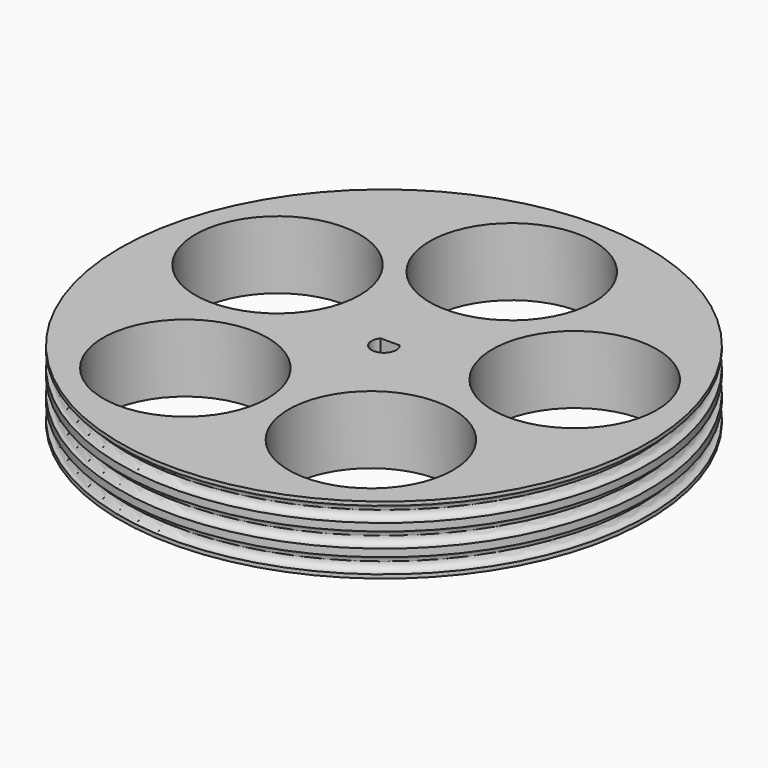
from build123d import *

# Parameters (mm, degrees)
F3_DEPTH = 9.001
F4_R     = 10.903033
F5_DEPTH = 9.001


with BuildPart() as f1:
    # F0 (on Front) → F1 (revolve)
    with BuildSketch(Plane.XZ):
        with BuildLine():
            Line((-35, 0), (0, 0))
            Line((0, 0), (0, 9))
            Line((0, 9), (-35, 9))
            Line((-35, 9), (-35, 8.5))
            ThreePointArc((-35, 8.5), (-34.292893, 8.207107), (-34, 7.5))
            ThreePointArc((-34, 7.5), (-34.292893, 6.792893), (-35, 6.5))
            Line((-35, 6.5), (-35, 5.5))
            ThreePointArc((-35, 5.5), (-34.292893, 5.207107), (-34, 4.5))
            ThreePointArc((-34, 4.5), (-34.292893, 3.792893), (-35, 3.5))
            Line((-35, 3.5), (-35, 2.5))
            ThreePointArc((-35, 2.5), (-34.292893, 2.207107), (-34, 1.5))
            ThreePointArc((-34, 1.5), (-34.292893, 0.792893), (-35, 0.5))
            Line((-35, 0.5), (-35, 0))
        make_face()
    revolve(axis=Axis((0, 0, 4.5), (0, 0, 1)))

    # F2 (on face) → F3 (cut, through all)
    with BuildSketch(Plane.XY.offset(9)):
        with BuildLine():
            Line((1.268069, 1.04), (-1.268069, 1.04))
            ThreePointArc((-1.268069, 1.04), (0, -1.64), (1.268069, 1.04))
        make_face()
    extrude(amount=-F3_DEPTH, mode=Mode.SUBTRACT)

    # F4 (on face) → F5 (cut, through all)
    with BuildSketch(Plane.XY.offset(9)):
        with Locations((0, 21.180328)):
            Circle(F4_R)
        with Locations((20.200038, 6.369047)):
            Circle(F4_R)
        with Locations((12.148537, -17.349909)):
            Circle(F4_R)
        with Locations((-12.893767, -16.803484)):
            Circle(F4_R)
        with Locations((-19.902998, 7.244099)):
            Circle(F4_R)
    extrude(amount=-F5_DEPTH, mode=Mode.SUBTRACT)


solid = f1.part
